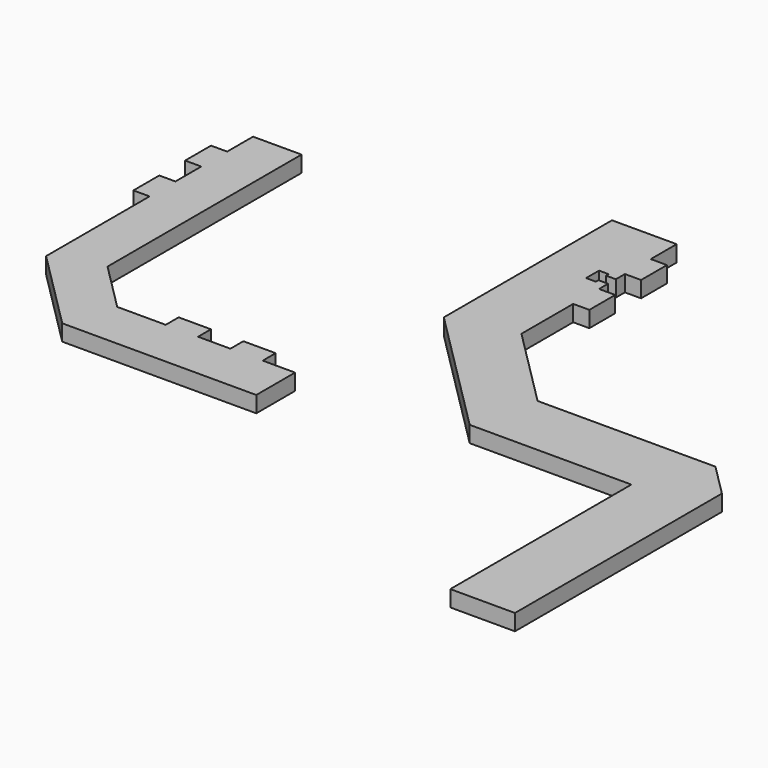
from build123d import *

# Parameters (mm, degrees)
F1_DEPTH = 5
F3_DEPTH = 5


with BuildPart() as f1:
    # F0 (on Top) → F1 (new body)
    with BuildSketch(Plane.XY):
        Polygon((0, 60), (-20, 60), (-20, -5), (20, -45), (70, -45), (70, -115), (90, -115), (90, -35), (80, -25), (25, -25), (0, 0), (0, 20), (5, 20), (5, 30), (0, 30), (0, 33.5), (-3, 33.5), (-3, 32.5), (-6, 32.5), (-6, 37.5), (-3, 37.5), (-3, 36.5), (0, 36.5), (0, 40), (5, 40), (5, 50), (0, 50), align=None)
    extrude(amount=F1_DEPTH)


with BuildPart() as f3:
    # F2 (on Top) → F3 (new body)
    with BuildSketch(Plane.XY):
        Polygon((-100, 40), (-115, 40), (-115, 30), (-120, 30), (-120, 20), (-115, 20), (-115, 10), (-120, 10), (-120, 0), (-115, 0), (-115, -40), (-90, -65), (-30, -65), (-30, -50), (-40, -50), (-40, -45), (-50, -45), (-50, -50), (-60, -50), (-60, -45), (-70, -45), (-70, -50), (-85, -50), (-100, -35), align=None)
    extrude(amount=F3_DEPTH)


solid = Compound([f1.part, f3.part])
